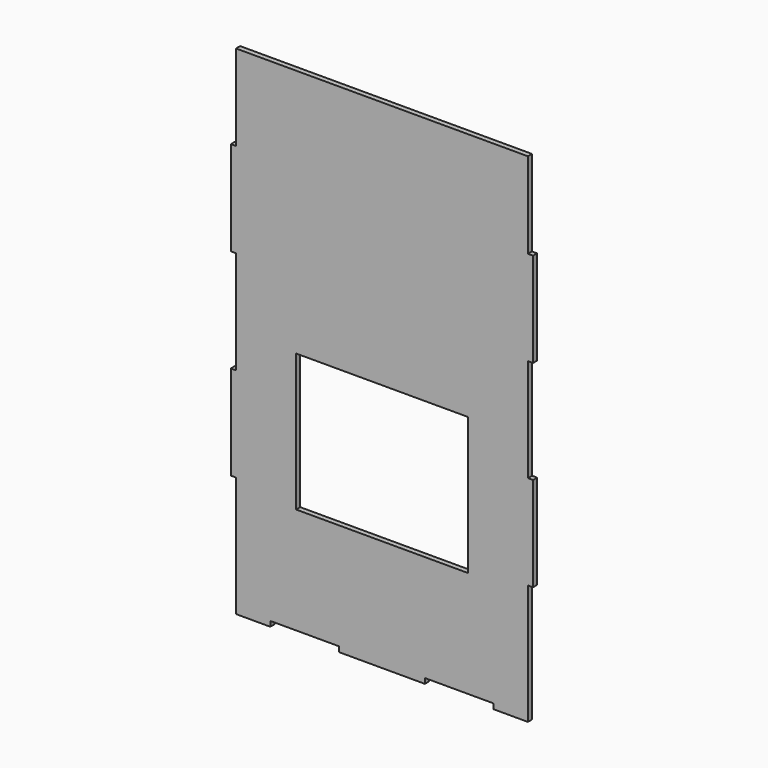
from build123d import *

# Parameters (mm, degrees)
F0_W     = 3
F0_H     = 55
F1_DEPTH = 3
F2_W     = 100
F2_H     = 80
F3_DEPTH = 3


with BuildPart() as f1:
    # F0 (on Front) → F1 (new body)
    with BuildSketch(Plane.XZ):
        Polygon((85, 95), (85, 145), (-85, 145), (-85, 95), (-85, 40), (-85, -20), (-85, -75), (-85, -145), (-65, -145), (-65, -142), (-25, -142), (-25, -145), (25, -145), (25, -142), (65, -142), (65, -145), (85, -145), (85, -75), (85, -20), (85, 40), align=None)
        with Locations((-86.5, -47.5)):
            Rectangle(F0_W, F0_H)
        with Locations((86.5, -47.5)):
            Rectangle(F0_W, F0_H)
        with Locations((86.5, 67.5)):
            Rectangle(F0_W, F0_H)
        with Locations((-86.5, 67.5)):
            Rectangle(F0_W, F0_H)
    extrude(amount=F1_DEPTH)

    # F2 (on face) → F3 (cut, through all)
    with BuildSketch(Plane(origin=(0, 0, 0), x_dir=(-1, 0, 0), z_dir=(0, 1, 0))):
        with Locations((0, -40)):
            Rectangle(F2_W, F2_H)
    extrude(amount=-F3_DEPTH, mode=Mode.SUBTRACT)


solid = f1.part
